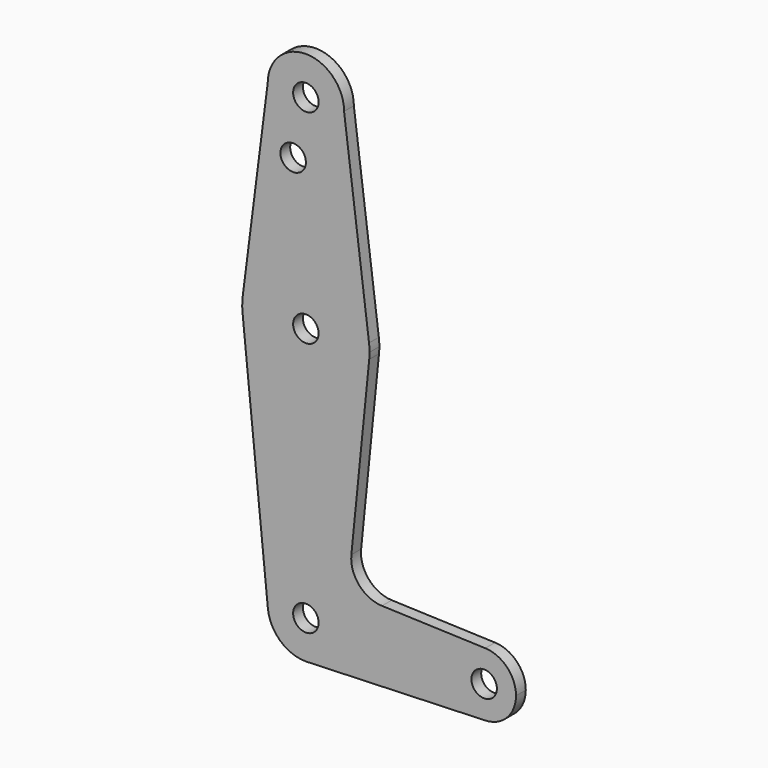
from build123d import *

# Parameters (mm, degrees)
F0_R     = 3.175
F1_DEPTH = 3.048


with BuildPart() as f1:
    # F0 (on Front) → F1 (new body)
    with BuildSketch(Plane.XZ):
        with BuildLine():
            ThreePointArc((-9.525, 114.3), (0, 104.775), (9.525, 114.3))
            ThreePointArc((9.525, 114.3), (0, 123.825), (-9.525, 114.3))
        make_face()
        with Locations((0, 114.3)):
            Circle(F0_R, mode=Mode.SUBTRACT)
        with BuildLine():
            Line((15.747457, 65.508289), (9.525, 114.3))
            ThreePointArc((9.525, 114.3), (0, 104.775), (-9.525, 114.3))
            Line((-9.525, 114.3), (-15.747457, 65.508289))
            ThreePointArc((-15.747457, 65.508289), (0, 79.375), (15.747457, 65.508289))
        make_face()
        with Locations((-3.175, 100.0252)):
            Circle(F0_R, mode=Mode.SUBTRACT)
        with BuildLine():
            ThreePointArc((15.875, 63.5), (15.843082, 64.506168), (15.747457, 65.508289))
            ThreePointArc((15.747457, 65.508289), (0, 79.375), (-15.747457, 65.508289))
            ThreePointArc((-15.747457, 65.508289), (-15.873588, 63.711757), (-15.795426, 61.9125))
            ThreePointArc((-15.795426, 61.9125), (0, 47.625), (15.795426, 61.9125))
            ThreePointArc((15.795426, 61.9125), (15.855094, 62.705253), (15.875, 63.5))
        make_face()
        with Locations((0, 63.5)):
            Circle(F0_R, mode=Mode.SUBTRACT)
        with BuildLine():
            ThreePointArc((15.795426, 61.9125), (0, 47.625), (-15.795426, 61.9125))
            Line((-15.795426, 61.9125), (-9.477255, -0.9525))
            ThreePointArc((-9.477255, -0.9525), (-0.476848, 9.513056), (9.525, 0))
            ThreePointArc((9.525, 0), (6.970557, -6.491299), (0.677344, -9.500886))
            Line((0.677344, -9.500886), (44.732405, -7.932475))
            ThreePointArc((44.732405, -7.932475), (36.5125, 0.000539), (44.733482, 7.932436))
            Line((44.733482, 7.932436), (18.9676, 8.853234))
            ThreePointArc((18.9676, 8.853234), (13.2612, 11.571359), (11.341187, 17.593382))
            Line((11.341187, 17.593382), (15.795426, 61.9125))
        make_face()
        with BuildLine():
            ThreePointArc((9.525, 0), (-0.476848, 9.513056), (-9.477255, -0.9525))
            ThreePointArc((-9.477255, -0.9525), (-6.389564, -7.063929), (0, -9.525))
            Line((0, -9.525), (0.677344, -9.500886))
            ThreePointArc((0.677344, -9.500886), (6.970557, -6.491299), (9.525, 0))
        make_face()
        Circle(F0_R, mode=Mode.SUBTRACT)
        with BuildLine():
            Line((0.677344, -9.500886), (0, -9.525))
            ThreePointArc((0, -9.525), (0.338886, -9.51897), (0.677344, -9.500886))
        make_face()
        with BuildLine():
            ThreePointArc((52.3875, 0), (50.162007, 5.511523), (44.733482, 7.932436))
            ThreePointArc((44.733482, 7.932436), (36.5125, 0.000539), (44.732405, -7.932475))
            ThreePointArc((44.732405, -7.932475), (50.161633, -5.51191), (52.3875, 0))
        make_face()
        with Locations((44.45, 0)):
            Circle(F0_R, mode=Mode.SUBTRACT)
    extrude(amount=F1_DEPTH)


solid = f1.part
